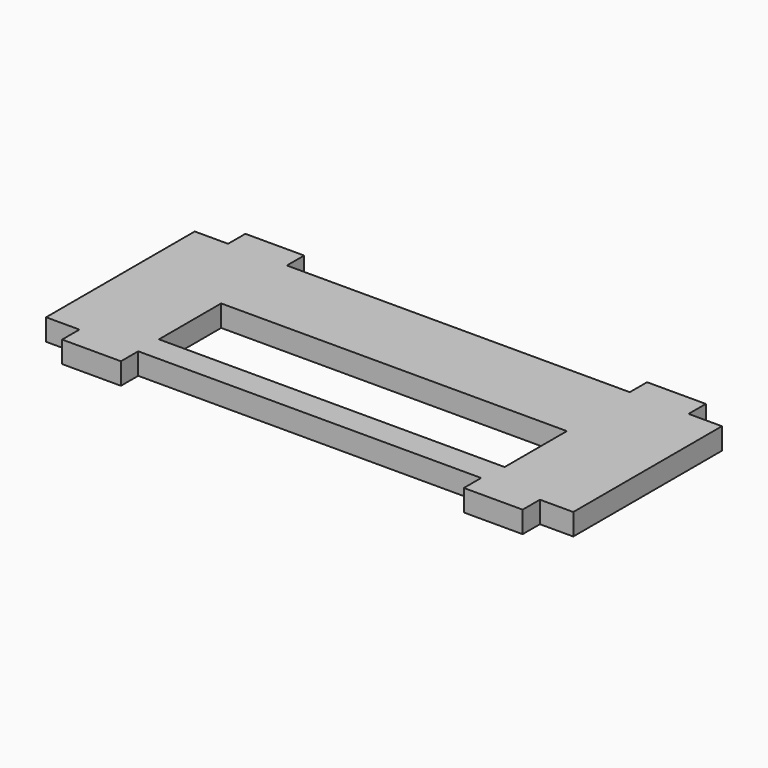
from build123d import *

# Parameters (mm, degrees)
F0_W     = 8.636
F0_H     = 3.175
F1_DEPTH = 3.175
F2_W     = 50.8
F2_H     = 11.43
F3_DEPTH = 25.4


with BuildPart() as f1:
    # F0 (on Top) → F1 (new body)
    with BuildSketch(Plane.XY):
        with Locations((-29.5148, 15.24)):
            Rectangle(F0_W, F0_H)
        Polygon((-33.8328, 13.6525), (-38.735, 13.6525), (-38.735, -13.6525), (-33.8328, -13.6525), (-25.1968, -13.6525), (25.1968, -13.6525), (33.8328, -13.6525), (38.735, -13.6525), (38.735, 13.6525), (33.8328, 13.6525), (25.1968, 13.6525), (-25.1968, 13.6525), align=None)
        with Locations((29.5148, 15.24)):
            Rectangle(F0_W, F0_H)
        with Locations((-29.5148, -15.24)):
            Rectangle(F0_W, F0_H)
        with Locations((29.5148, -15.24)):
            Rectangle(F0_W, F0_H)
    extrude(amount=F1_DEPTH)

    # F2 (on face) → F3 (cut)
    with BuildSketch(Plane.XY.offset(3.175)):
        with Locations((0.2032, -4.1275)):
            Rectangle(F2_W, F2_H)
    extrude(amount=-F3_DEPTH, mode=Mode.SUBTRACT)


solid = f1.part
